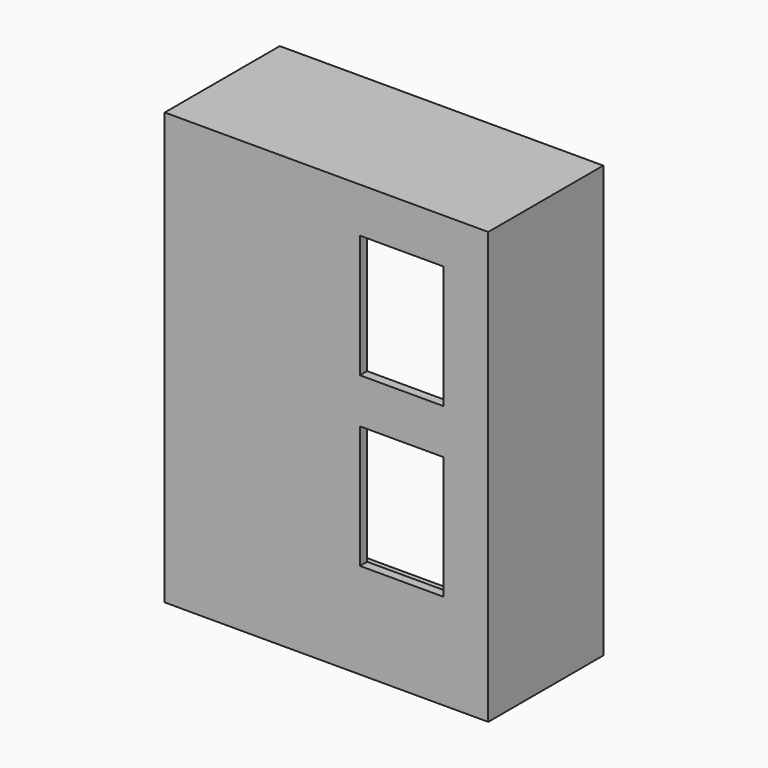
from build123d import *

# Parameters (mm, degrees)
F0_W     = 228.6
F0_H     = 101.6
F1_DEPTH = 304.8
F2_T     = -6.35
F3_W     = 58.928
F3_H     = 86.868
F4_DEPTH = 25.4


with BuildPart() as f1:
    # F0 (on Top) → F1 (new body)
    with BuildSketch(Plane.XY):
        Rectangle(F0_W, F0_H)
    extrude(amount=F1_DEPTH)

    # F2
    f2_openings = [f1.faces().sort_by_distance(p)[0] for p in [
        (0, 50.8, 152.4),
    ]]
    offset(amount=F2_T, openings=f2_openings)

    # F3 (on face) → F4 (cut)
    with BuildSketch(Plane.XZ.offset(50.8)):
        with Locations((53.086, 229.616)):
            Rectangle(F3_W, F3_H)
        with Locations((53.086, 110.998)):
            Rectangle(F3_W, F3_H)
    extrude(amount=-F4_DEPTH, mode=Mode.SUBTRACT)


solid = f1.part
